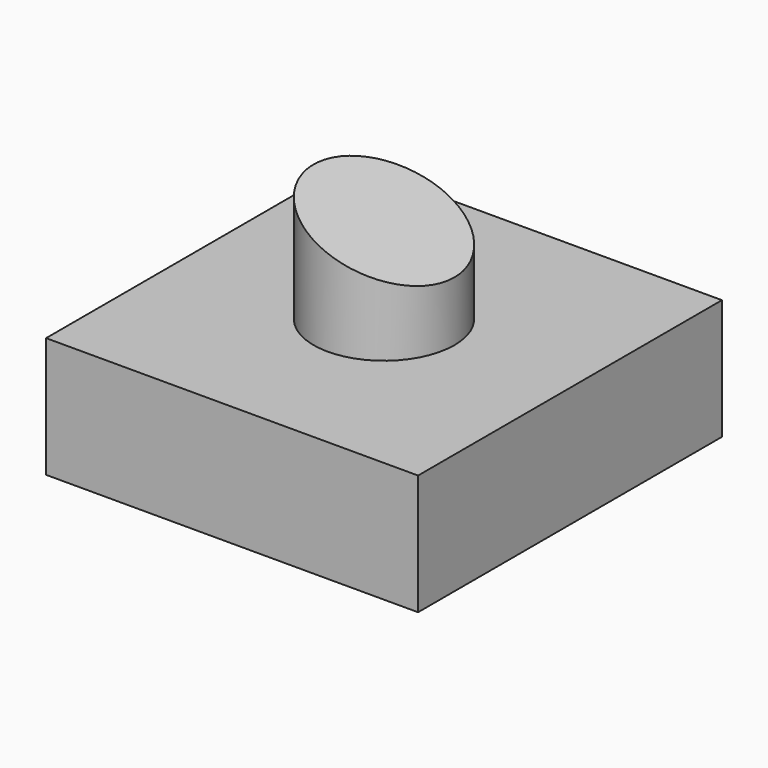
from build123d import *

# Parameters (mm, degrees)
F0_W     = 78.4944
F0_H     = 80.146916
F1_DEPTH = 25.4
F2_R     = 14.863696
F3_DEPTH = 25.4
F5_DEPTH = 21.336


with BuildPart() as f1:
    # F0 (on Top) → F1 (new body)
    with BuildSketch(Plane.XY):
        Rectangle(F0_W, F0_H)
    extrude(amount=F1_DEPTH)

    # F2 (on face) → F3 (join)
    with BuildSketch(Plane.XY.offset(25.4)):
        Circle(F2_R)
    extrude(amount=F3_DEPTH)

    # F4 (on Front) → F5 (cut, symmetric)
    with BuildSketch(Plane.XZ):
        Polygon((26.566675, 57.633717), (-36.728796, 57.633717), (26.566675, 33.534981), align=None)
    extrude(amount=F5_DEPTH, both=True, mode=Mode.SUBTRACT)


solid = f1.part
